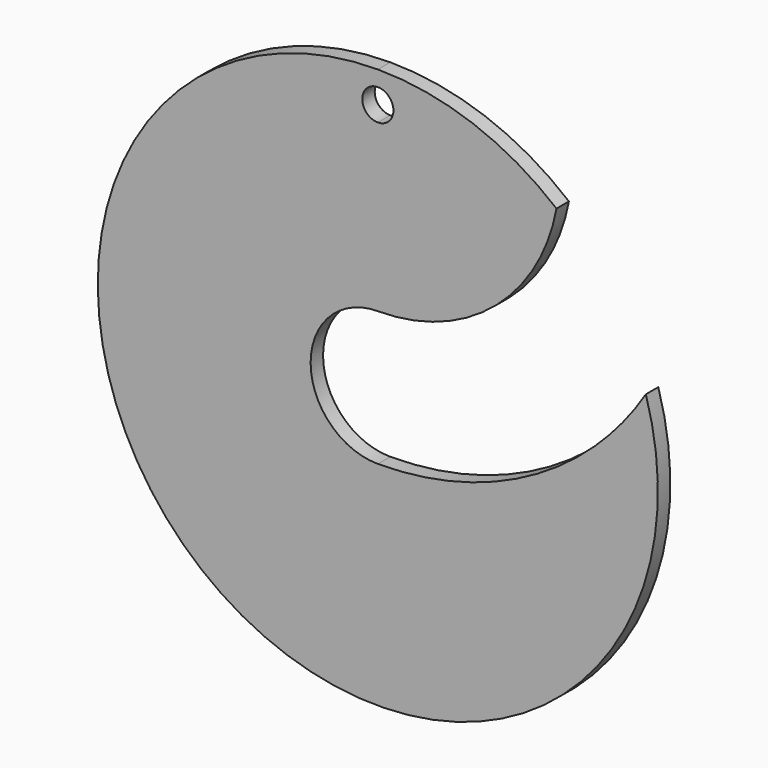
from build123d import *

# Parameters (mm, degrees)
F1_DEPTH = 1.5875


with BuildPart() as f1:
    # F0 (on Front) → F1 (new body)
    with BuildSketch(Plane.XZ):
        with BuildLine():
            ThreePointArc((15.7750619272, 15.6556075), (17.2957745251, 18.7170405077), (18.2286550123, 22.0056075))
            ThreePointArc((18.2286550123, 22.0056075), (9.6881471574, 26.8825301945), (0, 28.575))
            Line((0, 28.575), (0, 26.9875))
            ThreePointArc((0, 26.9875), (1.1225320151, 26.5225320151), (1.5875, 25.4))
            ThreePointArc((1.5875, 25.4), (1.1225320151, 24.2774679849), (0, 23.8125))
            Line((0, 23.8125), (0, 22.225))
            ThreePointArc((0, 22.225), (8.5441426812, 20.5170234402), (15.7750619272, 15.6556075))
        make_face()
        with BuildLine():
            Line((0, 26.9875), (0, 28.575))
            ThreePointArc((0, 28.575), (-17.0243221699, -22.9500126287), (27.3461703442, 8.2896075))
            ThreePointArc((27.3461703442, 8.2896075), (24.9460595827, 4.9482842946), (22.140202071, 1.9396075))
            ThreePointArc((22.140202071, 1.9396075), (-15.0140409003, -16.3868606159), (0, 22.225))
            Line((0, 22.225), (0, 23.8125))
            ThreePointArc((0, 23.8125), (-1.5875, 25.4), (0, 26.9875))
        make_face()
        with BuildLine():
            ThreePointArc((0, 6.858), (9.0312025297, 9.2060769155), (15.7750619272, 15.6556075))
            ThreePointArc((15.7750619272, 15.6556075), (8.5441426812, 20.5170234402), (0, 22.225))
            Line((0, 22.225), (0, 6.858))
        make_face()
        with BuildLine():
            Line((0, 6.858), (0, 22.225))
            ThreePointArc((0, 22.225), (-15.0140409003, -16.3868606159), (22.140202071, 1.9396075))
            ThreePointArc((22.140202071, 1.9396075), (11.9120364072, -4.5780244952), (0, -6.858))
            ThreePointArc((0, -6.858), (-6.858, 0), (0, 6.858))
        make_face()
    extrude(amount=F1_DEPTH)


solid = f1.part
